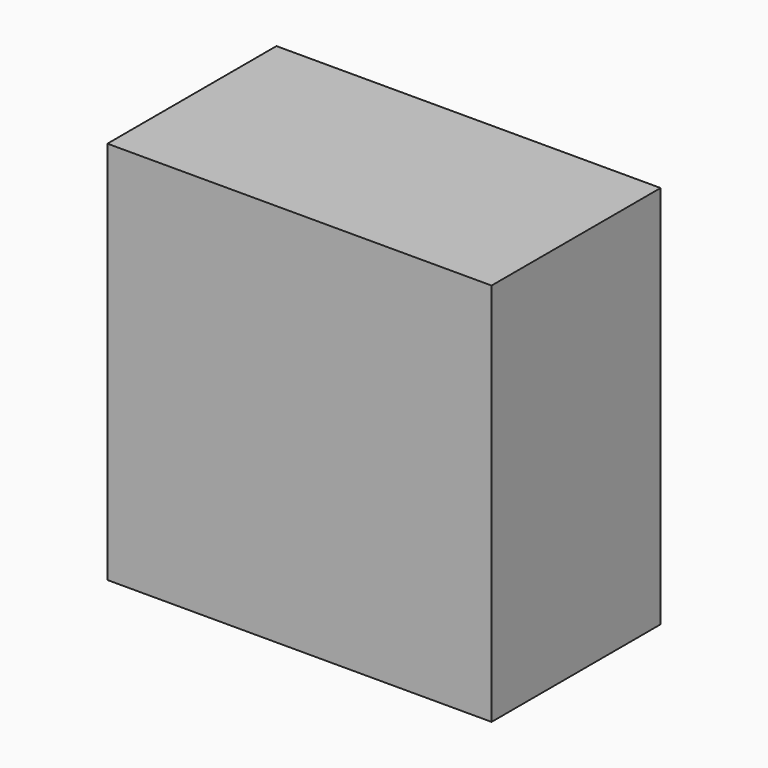
from build123d import *

# Parameters (mm, degrees)
F0_W     = 52.5068640709
F0_H     = 35.3771150112
F1_DEPTH = 330
F2_DEPTH = 600
F3_DEPTH = 600
F4_T     = -18


with BuildPart() as f1:
    # F0 (on Front) → F1 (new body)
    with BuildSketch(Plane.XZ):
        with Locations((-26.2534320354, 17.6885575056)):
            Rectangle(F0_W, F0_H)
    extrude(amount=-F1_DEPTH)

    # F2 (add): a face of the model
    f2_faces = [f1.faces().sort_by_distance(p)[0] for p in [
        (-26.2534320354, 165, 0),
    ]]
    extrude(f2_faces, amount=-F2_DEPTH)

    # F3 (add): a face of the model
    f3_faces = [f1.faces().sort_by_distance(p)[0] for p in [
        (0, 165, 300),
    ]]
    extrude(f3_faces, amount=-F3_DEPTH)

    # F4
    f4_openings = [f1.faces().sort_by_distance(p)[0] for p in [
        (-300, 330, 300),
    ]]
    offset(amount=F4_T, openings=f4_openings)


solid = f1.part
